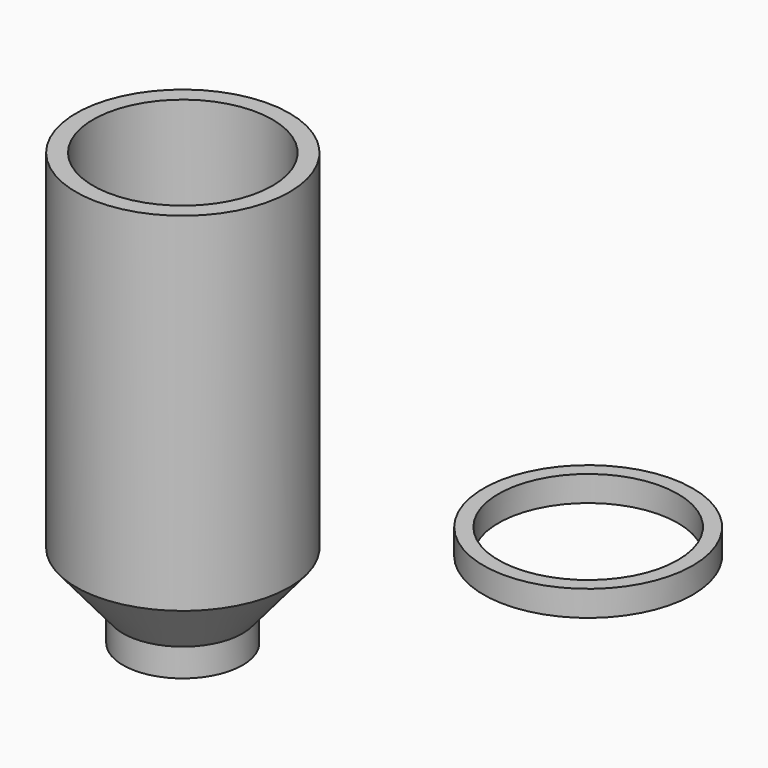
from build123d import *

# Parameters (mm, degrees)
F2_R     = 24.5
F2_R_2   = 21
F3_DEPTH = 6


with BuildPart() as f1:
    # F0 (on Front) → F1 (revolve)
    with BuildSketch(Plane.XZ):
        Polygon((21, 13.10929), (10, 0), (10, -8), (14, -8), (14, -1.455881), (25, 11.653409), (25, 13.10929), (25, 93.10929), (21, 93.10929), align=None)
    revolve(axis=Axis((0, 0, 6.554645), (0, 0, -1)))


with BuildPart() as f3:
    # F2 (on Top) → F3 (new body)
    with BuildSketch(Plane.XY):
        with Locations((45.950096, 61.216414)):
            Circle(F2_R)
        with Locations((45.950096, 61.216414)):
            Circle(F2_R_2, mode=Mode.SUBTRACT)
    extrude(amount=F3_DEPTH)


solid = Compound([f1.part, f3.part])
